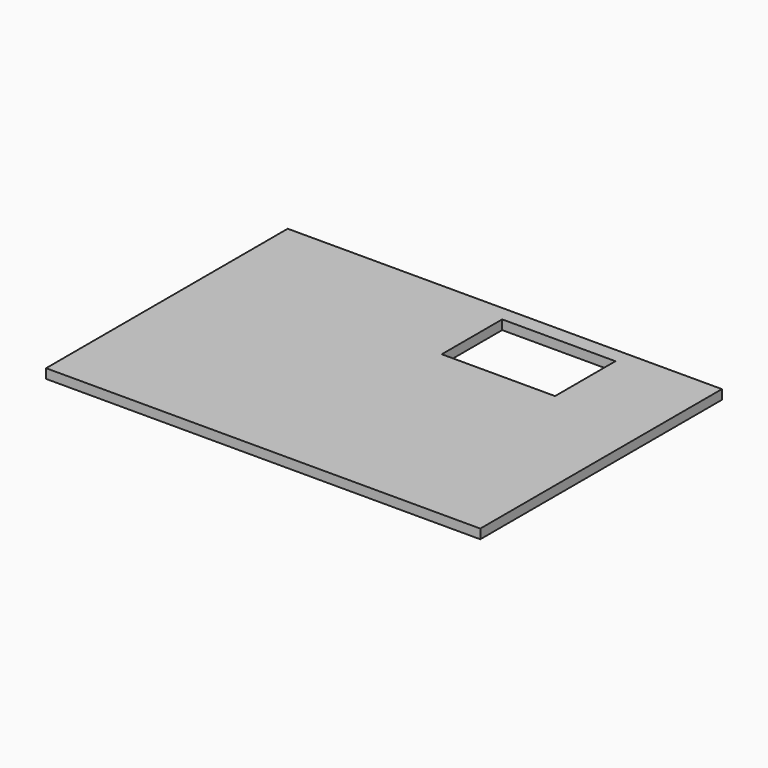
from build123d import *

# Parameters (mm, degrees)
BOX013_W     = 30
BOX013_H     = 20
BOX013_DEPTH = 2.5
BOX012_W     = 115
BOX012_H     = 80
BOX012_DEPTH = 2.5


with BuildPart() as cubo005:
    # Box013 → Box013 (new body)
    with BuildSketch(Plane(origin=(60, 56, 25), x_dir=(1, 0, 0), z_dir=(0, 0, 1))):
        with Locations((15, 10)):
            Rectangle(BOX013_W, BOX013_H)
    extrude(amount=BOX013_DEPTH)


with BuildPart() as cut017:
    # Box012 → Box012 (new body)
    with BuildSketch(Plane.XY.offset(25)):
        with Locations((57.5, 40)):
            Rectangle(BOX012_W, BOX012_H)
    extrude(amount=BOX012_DEPTH)

    # Cut017: cut Cubo005
    add(cubo005.part, mode=Mode.SUBTRACT)


solid = cut017.part
